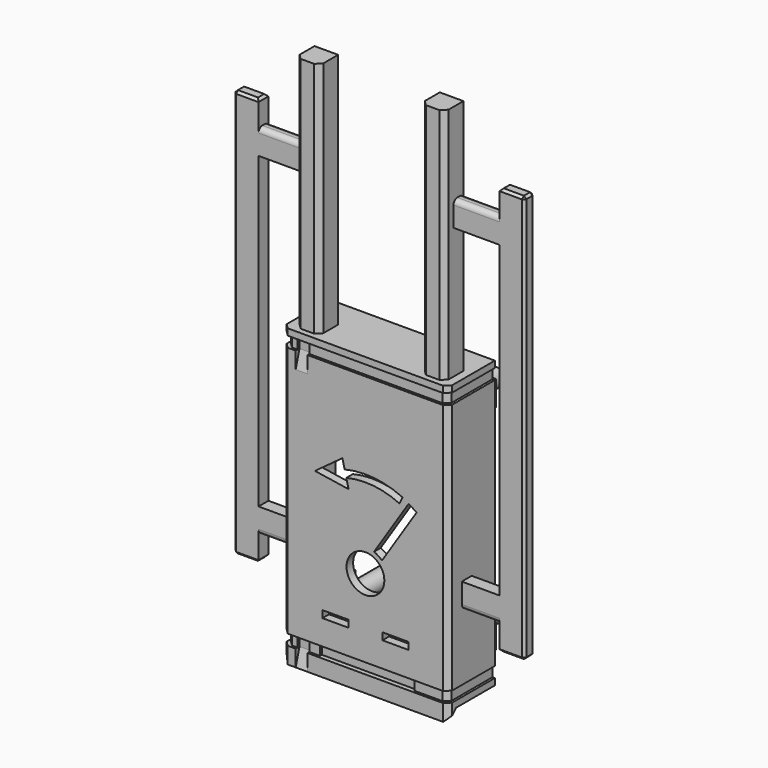
from build123d import *

# Parameters (mm, degrees)
PAD011_DEPTH    = 4.5
PAD025_DEPTH    = 100.98
SKETCH030_R     = 3.8
PAD026_DEPTH    = 37.4
SKETCH031_W     = 3.5
SKETCH031_H     = 10.5
PAD027_DEPTH    = 10
CHAMFER009_SIZE = 3.49
SKETCH043_R     = 8
POCKET003_DEPTH = 5
PAD029_DEPTH    = 4.5
SKETCH032_W     = 70
SKETCH032_H     = 24.7
PAD028_DEPTH    = 10
SKETCH041_W     = 10
SKETCH041_H     = 10
PAD037_DEPTH    = 100.5
PAD039_DEPTH    = 5.25
FILLET001_R     = 2
CHAMFER015_SIZE = 1
PAD038_DEPTH    = 5.25
FILLET_R        = 2
CHAMFER014_SIZE = 1
PAD010_DEPTH    = 70
CHAMFER011_SIZE = 2.125
CHAMFER013_SIZE = 2.125
SKETCH045_R     = 5.5
SKETCH045_W     = 7
SKETCH045_H     = 12
POCKET005_DEPTH = 5
SKETCH046_W     = 11
SKETCH046_H     = 3
POCKET006_DEPTH = 5
POCKET007_DEPTH = 5


with BuildPart() as band:
    # Sketch013 → Pad011 (new body)
    with BuildSketch(Plane.XY.offset(27.45)):
        Polygon((-35, 0), (-35, -24.7), (35, -24.7), (35, 0), (34, 0), (34, -23.7), (20, -23.7), (20, -22.7), (-20, -22.7), (-20, -23.7), (-34, -23.7), (-34, 0), align=None)
    extrude(amount=PAD011_DEPTH)


with BuildPart() as boardcover:
    # Sketch029 → Pad025 (new body)
    with BuildSketch(Plane.XY.offset(34.7)):
        Polygon((-35, 0), (-35, -24.7), (35, -24.7), (35, 0), (31.5, 0), (31.5, -21.2), (-31.5, -21.2), (-31.5, 0), align=None)
    extrude(amount=PAD025_DEPTH)

    # Sketch030 (on Face6 of Pad025) → Pad026 (join)
    with BuildSketch(Plane(origin=(0, -21.2, 0), x_dir=(-1, 0, 0), z_dir=(0, 1, 0))):
        with Locations((-22.225, 129.005)):
            Circle(SKETCH030_R)
        with Locations((22.225, 129.005)):
            Circle(SKETCH030_R)
        with Locations((-22.225, 41.375)):
            Circle(SKETCH030_R)
        with Locations((22.225, 41.375)):
            Circle(SKETCH030_R)
    extrude(amount=PAD026_DEPTH)

    # Sketch031 → Pad027 (join)
    with BuildSketch(Plane.XZ.offset(-5)):
        with Locations((29.75, 130.43)):
            Rectangle(SKETCH031_W, SKETCH031_H)
        with Locations((-29.75, 130.43)):
            Rectangle(SKETCH031_W, SKETCH031_H)
        with Locations((29.75, 39.95)):
            Rectangle(SKETCH031_W, SKETCH031_H)
        with Locations((-29.75, 39.95)):
            Rectangle(SKETCH031_W, SKETCH031_H)
    extrude(amount=PAD027_DEPTH)

    # Chamfer009
    chamfer009_edges = [boardcover.edges().sort_by_distance(p)[0] for p in [
        (28, -5, 130.43),
        (28, -5, 39.95),
        (-28, -5, 130.43),
        (-28, -5, 39.95),
    ]]
    chamfer(chamfer009_edges, length=CHAMFER009_SIZE)

    # Sketch043 (on Face3 of Boolean005) → Pocket003 (cut)
    with BuildSketch(Plane(origin=(0, -24.7, 10), x_dir=(1, 0, 0), z_dir=(0, -1, 0))):
        with Locations((0, 55)):
            Circle(SKETCH043_R)
        with BuildLine():
            Line((3.641143, 64.313543), (18.302914, 86.985827))
            Line((18.302914, 86.985827), (21.661771, 84.813713))
            Line((21.661771, 84.813713), (7, 62.141428))
            ThreePointArc((7, 62.141428), (5.430286, 63.397142), (3.641143, 64.313543))
        make_face()
        with BuildLine():
            ThreePointArc((15.712042, 88.498235), (3.658274, 91.818705), (-8.813211, 90.935043))
            Line((-9.765986, 94.819914), (-8.813211, 90.935043))
            Line((-21.351919, 86.31544), (-9.765986, 94.819914))
            Line((-7.145856, 84.136519), (-21.351919, 86.31544))
            Line((-8.098631, 88.02139), (-7.145856, 84.136519))
            ThreePointArc((14.438081, 85.782167), (3.361649, 88.833405), (-8.098631, 88.02139))
            Line((15.712042, 88.498235), (14.438081, 85.782167))
        make_face()
    extrude(amount=-POCKET003_DEPTH, mode=Mode.SUBTRACT)


with BuildPart() as body015:
    # Sketch033 → Pad029 (new body)
    with BuildSketch(Plane.XY.offset(138.43)):
        Polygon((-35, 0), (-35, -24.7), (35, -24.7), (35, 0), (34, 0), (34, -23.7), (-34, -23.7), (-34, 0), align=None)
    extrude(amount=PAD029_DEPTH)


with BuildPart() as zip2:
    # Sketch032 → Pad028 (new body)
    with BuildSketch(Plane.XY.offset(135.68)):
        with Locations((0, -12.35)):
            Rectangle(SKETCH032_W, SKETCH032_H)
    extrude(amount=PAD028_DEPTH)

    # Boolean006: cut Body015
    add(body015.part, mode=Mode.SUBTRACT)

    # Sketch041 (on Face8 of Boolean006) → Pad037 (join)
    with BuildSketch(Plane.XY.offset(145.68)):
        with Locations((-26.5, -17.25)):
            Rectangle(SKETCH041_W, SKETCH041_H)
        with Locations((26.5, -17.25)):
            Rectangle(SKETCH041_W, SKETCH041_H)
    extrude(amount=PAD037_DEPTH)


with BuildPart() as body021:
    # Sketch050 → Pad039 (new body)
    with BuildSketch(Plane(origin=(0, -17.5, 0), x_dir=(-1, 0, 0), z_dir=(0, 1, 0))):
        Polygon((35, 70.5), (51, 70.5), (51, 201.1), (35, 201.1), (31.5, 201.1), (31.5, 211.6), (35, 211.6), (51, 211.6), (51, 222.1), (61.5, 222.1), (61.5, 49.5), (51, 49.5), (51, 60), (35, 60), align=None)
    extrude(amount=PAD039_DEPTH)

    # Fillet001
    fillet001_edges = [body021.edges().sort_by_distance(p)[0] for p in [
        (-43, -17.5, 211.6),
        (-33.25, -17.5, 211.6),
        (-43, -12.25, 211.6),
        (-33.25, -12.25, 211.6),
        (-43, -12.25, 60),
        (-43, -17.5, 60),
    ]]
    fillet(fillet001_edges, radius=FILLET001_R)

    # Chamfer015
    chamfer015_edges = [body021.edges().sort_by_distance(p)[0] for p in [
        (-51, -14.875, 222.1),
        (-56.25, -17.5, 222.1),
        (-56.25, -12.25, 222.1),
        (-61.5, -14.875, 222.1),
        (-61.5, -17.5, 135.8),
        (-61.5, -12.25, 135.8),
        (-51, -14.875, 49.5),
        (-56.25, -17.5, 49.5),
        (-56.25, -12.25, 49.5),
        (-61.5, -14.875, 49.5),
    ]]
    chamfer(chamfer015_edges, length=CHAMFER015_SIZE)


with BuildPart() as body020:
    # Sketch049 → Pad038 (new body)
    with BuildSketch(Plane.XZ.offset(12.25)):
        Polygon((35, 70.5), (51, 70.5), (51, 201.1), (35, 201.1), (31.5, 201.1), (31.5, 211.6), (35, 211.6), (51, 211.6), (51, 222.1), (61.5, 222.1), (61.5, 49.5), (51, 49.5), (51, 60), (35, 60), align=None)
    extrude(amount=PAD038_DEPTH)

    # Fillet
    fillet_edges = [body020.edges().sort_by_distance(p)[0] for p in [
        (43, -17.5, 60),
        (43, -12.25, 60),
        (33.25, -17.5, 211.6),
        (33.25, -12.25, 211.6),
        (43, -12.25, 211.6),
        (43, -17.5, 211.6),
    ]]
    fillet(fillet_edges, radius=FILLET_R)

    # Chamfer014
    chamfer014_edges = [body020.edges().sort_by_distance(p)[0] for p in [
        (51, -14.875, 222.1),
        (56.25, -12.25, 222.1),
        (56.25, -17.5, 222.1),
        (61.5, -17.5, 135.8),
        (61.5, -14.875, 222.1),
        (61.5, -12.25, 135.8),
        (61.5, -14.875, 49.5),
        (56.25, -12.25, 49.5),
        (56.25, -17.5, 49.5),
        (51, -14.875, 49.5),
    ]]
    chamfer(chamfer014_edges, length=CHAMFER014_SIZE)


with BuildPart() as plate:
    # Sketch012 → Pad010 (new body)
    with BuildSketch(Plane.YZ.offset(-35)):
        Polygon((-24.7, 20.45), (-20.45, 24.7), (0, 24.7), (0, 34.7), (-24.7, 34.7), align=None)
    extrude(amount=PAD010_DEPTH)

    # Boolean002: cut Band
    add(band.part, mode=Mode.SUBTRACT)

    # Boolean009: union BoardCover, Zip2
    add(boardcover.part)
    add(zip2.part)

    # Chamfer011
    chamfer011_edges = [plate.edges().sort_by_distance(p)[0] for p in [
        (-35, -24.7, 23.95),
        (-34, -23.7, 29.7),
        (-35, -24.7, 33.325),
        (-35, -24.7, 85.19),
        (-34, -23.7, 140.68),
        (-35, -24.7, 137.055),
        (-35, -24.7, 144.305),
        (35, -24.7, 144.305),
        (34, -23.7, 140.68),
        (35, -24.7, 137.055),
        (35, -24.7, 85.19),
        (35, -24.7, 33.325),
        (34, -23.7, 29.7),
        (35, -24.7, 23.95),
    ]]
    chamfer(chamfer011_edges, length=CHAMFER011_SIZE)

    # Chamfer013
    chamfer013_edges = [plate.edges().sort_by_distance(p)[0] for p in [
        (-31.5, -22.25, 195.93),
        (-21.5, -22.25, 195.93),
        (21.5, -22.25, 195.93),
        (31.5, -22.25, 195.93),
    ]]
    chamfer(chamfer013_edges, length=CHAMFER013_SIZE)

    # Sketch045 (on Face54 of Chamfer012) → Pocket005 (cut)
    with BuildSketch(Plane(origin=(-35, 0, 0), x_dir=(0, -1, 0), z_dir=(-1, 0, 0))):
        with Locations((-9.7, 101.7)):
            Circle(SKETCH045_R)
        with Locations((-2.34, 81.38)):
            Rectangle(SKETCH045_W, SKETCH045_H)
    extrude(amount=-POCKET005_DEPTH, mode=Mode.SUBTRACT)

    # Sketch046 (on Face97 of Pocket005) → Pocket006 (cut)
    with BuildSketch(Plane.XZ.offset(24.7)):
        with Locations((-12.7, 44)):
            Rectangle(SKETCH046_W, SKETCH046_H)
        with Locations((12.7, 44)):
            Rectangle(SKETCH046_W, SKETCH046_H)
    extrude(amount=-POCKET006_DEPTH, mode=Mode.SUBTRACT)

    # Sketch048 → Pocket007 (cut)
    with BuildSketch(Plane.YZ.offset(-24.5)):
        Polygon((-24.7, 138.43), (-24.7, 131.43), (-22.7, 138.43), (-22.7, 142.93), (-24.7, 142.93), align=None)
        Polygon((-22.7, 27.45), (-24.7, 20.45), (-24.7, 27.45), (-24.7, 31.95), (-22.7, 31.95), align=None)
    extrude(amount=-POCKET007_DEPTH, mode=Mode.SUBTRACT)

    # Boolean011: union Body021, Body020
    add(body021.part)
    add(body020.part)


solid = plate.part
